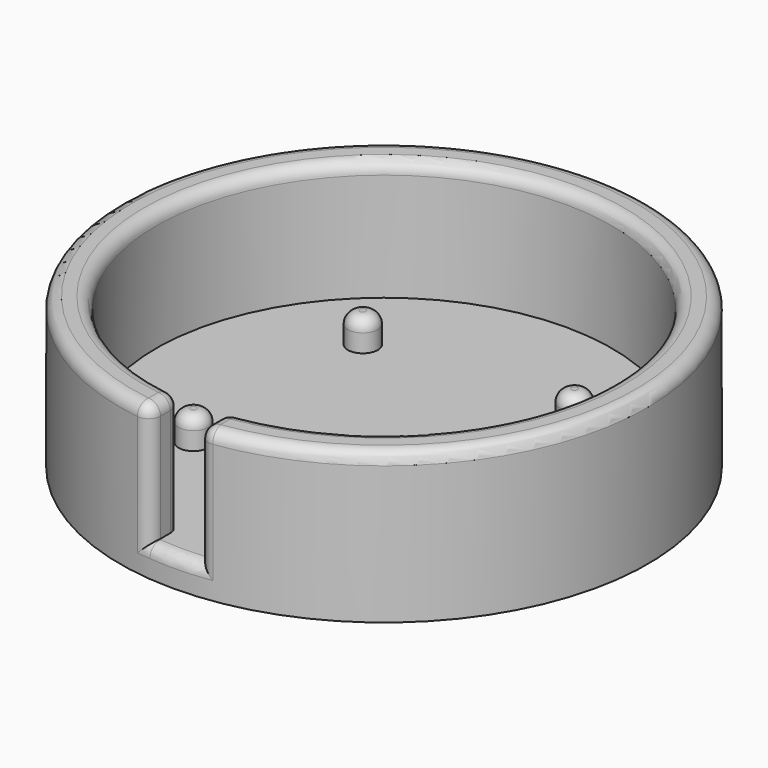
from build123d import *

# Parameters (mm, degrees)
F0_R     = 44
F0_R_2   = 38
F1_DEPTH = 25
F2_W     = 8
F2_H     = 10
F3_DEPTH = 25.001
F5_R     = 44
F6_DEPTH = 5
F4_R     = 2.5
F7_DEPTH = 10
F8_R     = 2


with BuildPart() as f1:
    # F0 (on Top) → F1 (new body)
    with BuildSketch(Plane.XY):
        Circle(F0_R)
        Circle(F0_R_2, mode=Mode.SUBTRACT)
    extrude(amount=F1_DEPTH)

    # F2 (on Top) → F3 (cut, through all)
    with BuildSketch(Plane.XY):
        with Locations((0, -42.788887)):
            Rectangle(F2_W, F2_H)
    extrude(amount=F3_DEPTH, mode=Mode.SUBTRACT)

    # F5 (on Top) → F6 (join)
    with BuildSketch(Plane.XY):
        Circle(F5_R)
    extrude(amount=F6_DEPTH)

    # F4 (on Top) → F7 (join)
    with BuildSketch(Plane.XY):
        with Locations((17.65, -17.65)):
            Circle(F4_R)
        with Locations((17.65, 17.65)):
            Circle(F4_R)
        with Locations((-17.65, 17.65)):
            Circle(F4_R)
        with Locations((-17.65, -17.65)):
            Circle(F4_R)
    extrude(amount=F7_DEPTH)

    # F8
    f8_edges = [f1.edges().sort_by_distance(p)[0] for p in [
        (0, -44, 5),
        (4, -43.817805, 15),
        (-4, -43.817805, 15),
        (4, -37.788887, 15),
        (-4, -37.788887, 15),
        (15.15, -17.65, 10),
        (-20.15, -17.65, 10),
        (-20.15, 17.65, 10),
        (15.15, 17.65, 10),
        (-4, -40.803346, 25),
        (4, -40.803346, 25),
        (0, 38, 25),
        (0, 44, 25),
    ]]
    fillet(f8_edges, radius=F8_R)


solid = f1.part
